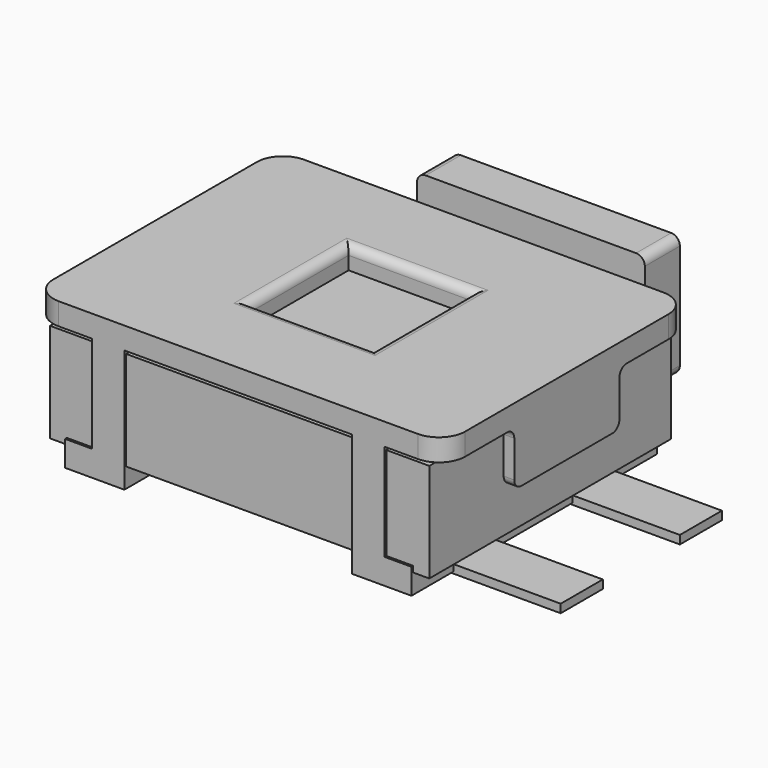
from build123d import *

# Parameters (mm, degrees)
SKETCH_W                = 4.7
SKETCH_H                = 3.5
PAD_DEPTH               = 1.65
SKETCH001_W             = 2.6
SKETCH001_H             = 1.4
POCKET_DEPTH            = 2.5
SKETCH002_W             = 0.680844
SKETCH002_H             = 1.107077
POCKET001_DEPTH         = 2.5
SKETCH003_W             = 1.41065
SKETCH003_H             = 1.41065
POCKET002_DEPTH         = 2.5
FILLET_R                = 0.1
SKETCH004_W             = 0.395829
SKETCH004_H             = 0.368592
POCKET003_DEPTH         = 2.5
SKETCH005_W             = 0.120981
SKETCH005_H             = 0.619821
PAD001_DEPTH            = 0.75
FILLET001_R             = 0.1
FILLET002_R             = 0.3
SKETCH006_W             = 4.328202
SKETCH006_H             = 1.131411
PAD002_DEPTH            = 1.725
SKETCH007_W             = 2.5
SKETCH007_H             = 0.5
PAD003_DEPTH            = 1.2
SKETCH008_W             = 0.359729
SKETCH008_H             = 0.154299
POCKET004_DEPTH         = 2.5
SKETCH009_W             = 2.6
SKETCH009_H             = 1.4
PAD004_DEPTH            = 0.5
FILLET003_R             = 0.1
SKETCH010_W             = 1.982206
SKETCH010_H             = 0.096105
PAD005_DEPTH            = 1.15
SKETCH011_W             = 0.333264
SKETCH011_H             = 1.1
POCKET005_DEPTH         = 1.5
BODY003_PLACEMENT_ANGLE = 180


with BuildPart() as body:
    # Sketch → Pad (new body)
    with BuildSketch(Plane.XY):
        Rectangle(SKETCH_W, SKETCH_H)
    extrude(amount=PAD_DEPTH)

    # Sketch001 → Pocket (cut, symmetric)
    with BuildSketch(Plane.XZ):
        with Locations((0, 0.7)):
            Rectangle(SKETCH001_W, SKETCH001_H)
    extrude(amount=POCKET_DEPTH, both=True, mode=Mode.SUBTRACT)

    # Sketch002 → Pocket001 (cut, symmetric)
    with BuildSketch(Plane.XZ):
        with Locations((2.009578, 0.8444125)):
            Rectangle(SKETCH002_W, SKETCH002_H)
    pocket001 = extrude(amount=POCKET001_DEPTH, both=True, mode=Mode.SUBTRACT)

    # Mirrored: Pocket001 across Sketch002 V_Axis
    add(pocket001.mirror(Plane(origin=(0, 0, 0), x_dir=(0, -1, 0), z_dir=(1, 0, 0))), mode=Mode.SUBTRACT)

    # Sketch003 → Pocket002 (cut, symmetric)
    with BuildSketch(Plane.XY):
        Rectangle(SKETCH003_W, SKETCH003_H)
    extrude(amount=POCKET002_DEPTH, both=True, mode=Mode.SUBTRACT)

    # Fillet
    fillet_edges = [body.edges().sort_by_distance(p)[0] for p in [
        (0, 0.705325, 1.65),
        (0, -0.705325, 1.65),
        (-0.705325, 0, 1.65),
        (0.705325, 0, 1.65),
    ]]
    fillet(fillet_edges, radius=FILLET_R)

    # Sketch004 → Pocket003 (cut, symmetric)
    with BuildSketch(Plane.XZ):
        with Locations((-2.1746375, 0.184296)):
            Rectangle(SKETCH004_W, SKETCH004_H)
    pocket003 = extrude(amount=POCKET003_DEPTH, both=True, mode=Mode.SUBTRACT)

    # Mirrored001: Pocket003 across Sketch004 V_Axis
    add(pocket003.mirror(Plane(origin=(0, 0, 0), x_dir=(0, -1, 0), z_dir=(1, 0, 0))), mode=Mode.SUBTRACT)

    # Sketch005 → Pad001 (join, symmetric)
    with BuildSketch(Plane.XZ):
        with Locations((-2.2895095, 1.0880405)):
            Rectangle(SKETCH005_W, SKETCH005_H)
    pad001 = extrude(amount=PAD001_DEPTH, both=True)

    # Mirrored002: Pad001 across Sketch005 V_Axis
    add(pad001.mirror(Plane(origin=(0, 0, 0), x_dir=(0, -1, 0), z_dir=(1, 0, 0))))

    # Fillet001
    fillet001_edges = [body.edges().sort_by_distance(p)[0] for p in [
        (-2.28951, -0.75, 1.397951),
        (-2.28951, 0.75, 1.397951),
        (-2.28951, 0.75, 0.77813),
        (-2.28951, -0.75, 0.77813),
        (2.28951, -0.75, 1.397951),
        (2.28951, -0.75, 0.77813),
        (2.28951, 0.75, 0.77813),
        (2.28951, 0.75, 1.397951),
    ]]
    fillet(fillet001_edges, radius=FILLET001_R)

    # Fillet002
    fillet002_edges = [body.edges().sort_by_distance(p)[0] for p in [
        (-2.35, -1.75, 1.523975),
        (2.35, -1.75, 1.523975),
        (2.35, 1.75, 1.523975),
        (-2.35, 1.75, 1.523975),
    ]]
    fillet(fillet002_edges, radius=FILLET002_R)


with BuildPart() as body001:
    # Sketch006 → Pad002 (new body, symmetric)
    with BuildSketch(Plane.XZ):
        with Locations((-0.004008, 0.7890605)):
            Rectangle(SKETCH006_W, SKETCH006_H)
    extrude(amount=PAD002_DEPTH, both=True)

    # Sketch007 (on Face5 of Pad002) → Pad003 (join)
    with BuildSketch(Plane(origin=(0, 1.725, 0), x_dir=(1, 0, 0), z_dir=(0, 1, 0))):
        with Locations((0, -0.5593063219)):
            Rectangle(SKETCH007_W, SKETCH007_H)
    extrude(amount=PAD003_DEPTH)

    # Sketch008 (on Face11 of Pad003) → Pocket004 (cut)
    with BuildSketch(Plane(origin=(0, 2.925, 0), x_dir=(1, 0, 0), z_dir=(0, 1, 0))):
        with Locations((-0.4689005, -0.3707735)):
            Rectangle(SKETCH008_W, SKETCH008_H)
    pocket004 = extrude(amount=-POCKET004_DEPTH, mode=Mode.SUBTRACT)

    # Mirrored003: Pocket004 across Sketch008 V_Axis
    add(pocket004.mirror(Plane(origin=(0, 2.925, 0), x_dir=(0, 1, 0), z_dir=(1, 0, 0))), mode=Mode.SUBTRACT)

    # Sketch009 (on Face19 of Mirrored003) → Pad004 (join)
    with BuildSketch(Plane(origin=(0, 2.925, 0), x_dir=(1, 0, 0), z_dir=(0, 1, 0))):
        with Locations((0, -0.79323217)):
            Rectangle(SKETCH009_W, SKETCH009_H)
    extrude(amount=-PAD004_DEPTH)

    # Fillet003
    fillet003_edges = [body001.edges().sort_by_distance(p)[0] for p in [
        (1.3, 2.675, 1.493232),
        (1.3, 2.675, 0.093232),
        (-1.3, 2.675, 0.093232),
        (-1.3, 2.675, 1.493232),
    ]]
    fillet(fillet003_edges, radius=FILLET003_R)


with BuildPart() as body003:
    # Sketch010 → Pad005 (new body, symmetric)
    with BuildSketch(Plane.XZ):
        with Locations((-2.208897, 0.0262485)):
            Rectangle(SKETCH010_W, SKETCH010_H)
    extrude(amount=PAD005_DEPTH, both=True)

    # Sketch011 (on Face4 of Pad005) → Pocket005 (cut)
    with BuildSketch(Plane(origin=(-3.2, 0, 0), x_dir=(0, 0, -1), z_dir=(-1, 0, 0))):
        with Locations((0.031383, 0)):
            Rectangle(SKETCH011_W, SKETCH011_H)
    extrude(amount=-POCKET005_DEPTH, mode=Mode.SUBTRACT)


with BuildPart() as body003_1:
    # Body003 placement: moved
    add(body003.part.rotate(Axis((0, 0, 0), (0, 0, 1)), BODY003_PLACEMENT_ANGLE))


solid = Compound([body.part, body001.part, body003_1.part])
